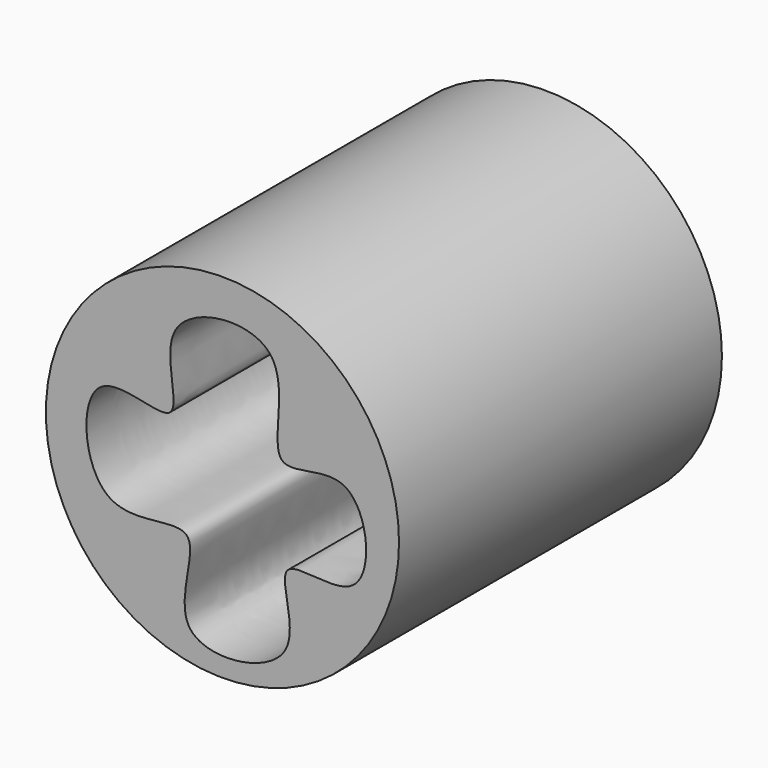
from build123d import *

# Parameters (mm, degrees)
F0_R     = 3.5
F1_DEPTH = 8
F3_DEPTH = 8.382


with BuildPart() as f1:
    # F0 (on Front) → F1 (new body)
    with BuildSketch(Plane.XZ):
        with Locations((-8.6341733113, 9.7853960469)):
            Circle(F0_R)
    extrude(amount=F1_DEPTH)

    # F2 (on Front) → F3 (cut)
    with BuildSketch(Plane.XZ):
        with BuildLine():
            add(Edge.make_bspline(
                [(-11.0404528677, 10.5799101293), (-10.6572710451, 10.8326718119), (-9.079319755, 9.9698983938), (-10.284927353, 12.5015861225), (-6.9148580978, 12.8360767667), (-8.023005842, 9.821557263), (-5.8454493352, 11.0701940053), (-5.5293357757, 8.1247557422), (-7.9393152621, 9.1079395318), (-6.6425136932, 6.7570153672), (-10.0754407008, 6.3462641912), (-8.6751644582, 9.1852868951), (-11.3241182317, 7.9406815293), (-11.4906989103, 10.2829102703), (-11.0404528677, 10.5799101293)],
                knots=[0, 0, 0, 0, 0.0774047608, 0.1580891176, 0.2490411842, 0.3373767699, 0.4115244394, 0.4968377371, 0.572933008, 0.6519655111, 0.7430622017, 0.82669553, 0.909047911, 1, 1, 1, 1], degree=3))
        make_face()
    extrude(amount=F3_DEPTH, mode=Mode.SUBTRACT)


solid = f1.part
